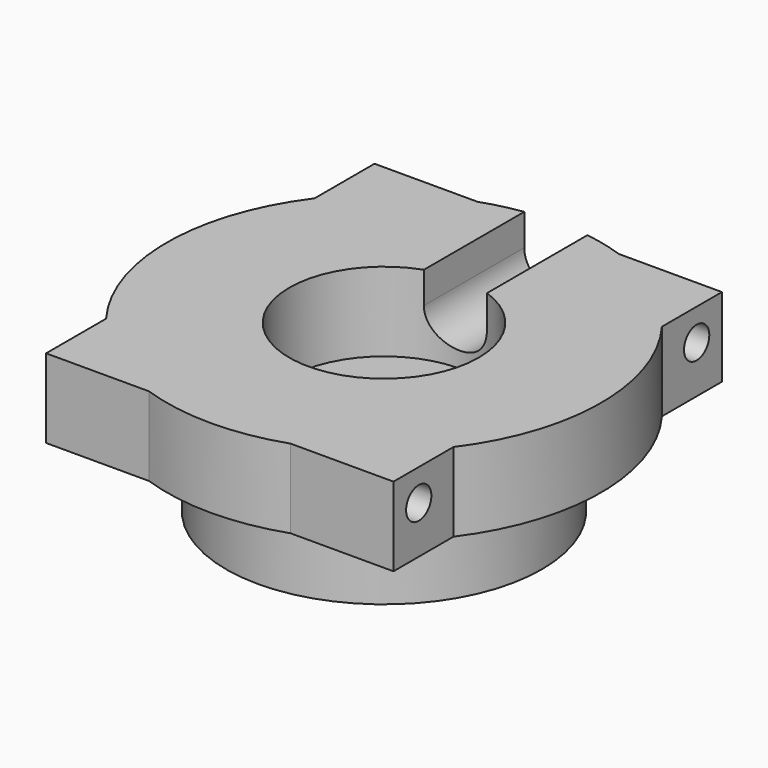
from build123d import *

# Parameters (mm, degrees)
CYLINDER1317_R     = 1
CYLINDER1317_DEPTH = 7
CYLINDER1318_R     = 1
CYLINDER1318_DEPTH = 7
CYLINDER1319_R     = 1
CYLINDER1319_DEPTH = 7
CYLINDER1320_R     = 1
CYLINDER1320_DEPTH = 7
BOX543_W           = 4
BOX543_H           = 11
BOX543_DEPTH       = 4
CYLINDER1293_R     = 2
CYLINDER1293_DEPTH = 11
CYLINDER1292_R     = 3
CYLINDER1292_DEPTH = 6.5
CYLINDER1286_R     = 6
CYLINDER1286_DEPTH = 6.5
CYLINDER1310_R     = 13.75
CYLINDER1310_DEPTH = 5
CYLINDER1291_R     = 5.6
CYLINDER1291_DEPTH = 4.5
CYLINDER1290_R     = 10
CYLINDER1290_DEPTH = 6
BOX507_W           = 22
BOX507_H           = 26
BOX507_DEPTH       = 5


with BuildPart() as cylinder1317:
    # Cylinder1317 → Cylinder1317 (new body)
    with BuildSketch(Plane(origin=(439, 96, 121), x_dir=(0, 0, -1), z_dir=(1, 0, 0))):
        Circle(CYLINDER1317_R)
    extrude(amount=CYLINDER1317_DEPTH)


with BuildPart() as fusion248002050190:
    # Cylinder1318 → Cylinder1318 (new body)
    with BuildSketch(Plane(origin=(439, 74, 121), x_dir=(0, 0, -1), z_dir=(1, 0, 0))):
        Circle(CYLINDER1318_R)
    extrude(amount=CYLINDER1318_DEPTH)

    # Fusion248002050190: union Cylinder1317
    add(cylinder1317.part)


with BuildPart() as fusion248002050190_1:
    # Fusion248002050190 placement: moved
    add(fusion248002050190.part.moved(Location((12, 0, 7))))


with BuildPart() as cylinder1319:
    # Cylinder1319 → Cylinder1319 (new body)
    with BuildSketch(Plane(origin=(439, 96, 121), x_dir=(0, 0, -1), z_dir=(1, 0, 0))):
        Circle(CYLINDER1319_R)
    extrude(amount=CYLINDER1319_DEPTH)


with BuildPart() as fusion248002050192:
    # Cylinder1320 → Cylinder1320 (new body)
    with BuildSketch(Plane(origin=(439, 74, 121), x_dir=(0, 0, -1), z_dir=(1, 0, 0))):
        Circle(CYLINDER1320_R)
    extrude(amount=CYLINDER1320_DEPTH)

    # Fusion248002050191: union Cylinder1319
    add(cylinder1319.part)


with BuildPart() as fusion248002050192_1:
    # Fusion248002050191 placement: moved
    add(fusion248002050192.part.moved(Location((27, 0, 7))))

    # Fusion248002050192: union Fusion248002050190
    add(fusion248002050190_1.part)


with BuildPart() as cube769:
    # Box543 → Box543 (new body)
    with BuildSketch(Plane(origin=(460, 88, 128), x_dir=(1, 0, 0), z_dir=(0, 0, 1))):
        with Locations((2, 5.5)):
            Rectangle(BOX543_W, BOX543_H)
    extrude(amount=BOX543_DEPTH)


with BuildPart() as fusion248002050172:
    # Cylinder1293 → Cylinder1293 (new body)
    with BuildSketch(Plane(origin=(462, 88, 128), x_dir=(1, 0, 0), z_dir=(0, 1, 0))):
        Circle(CYLINDER1293_R)
    extrude(amount=CYLINDER1293_DEPTH)

    # Fusion248002050172: union Cube769
    add(cube769.part)


with BuildPart() as cylinder1292:
    # Cylinder1292 → Cylinder1292 (new body)
    with BuildSketch(Plane(origin=(462, 85, 123), x_dir=(1, 0, 0), z_dir=(0, 0, 1))):
        Circle(CYLINDER1292_R)
    extrude(amount=CYLINDER1292_DEPTH)


with BuildPart() as cylinder1286:
    # Cylinder1286 → Cylinder1286 (new body)
    with BuildSketch(Plane(origin=(462, 85, 125), x_dir=(1, 0, 0), z_dir=(0, 0, 1))):
        Circle(CYLINDER1286_R)
    extrude(amount=CYLINDER1286_DEPTH)


with BuildPart() as cylinder1310:
    # Cylinder1310 → Cylinder1310 (new body)
    with BuildSketch(Plane(origin=(462, 85, 125), x_dir=(1, 0, 0), z_dir=(0, 0, 1))):
        Circle(CYLINDER1310_R)
    extrude(amount=CYLINDER1310_DEPTH)


with BuildPart() as cylinder1291:
    # Cylinder1291 → Cylinder1291 (new body)
    with BuildSketch(Plane(origin=(462, 85, 119.5), x_dir=(1, 0, 0), z_dir=(0, 0, 1))):
        Circle(CYLINDER1291_R)
    extrude(amount=CYLINDER1291_DEPTH)


with BuildPart() as cut014301:
    # Cylinder1290 → Cylinder1290 (new body)
    with BuildSketch(Plane(origin=(462, 85, 119.5), x_dir=(1, 0, 0), z_dir=(0, 0, 1))):
        Circle(CYLINDER1290_R)
    extrude(amount=CYLINDER1290_DEPTH)

    # Cut014301: cut Cylinder1291
    add(cylinder1291.part, mode=Mode.SUBTRACT)


with BuildPart() as bucket_head:
    # Box507 → Box507 (new body)
    with BuildSketch(Plane(origin=(451, 72, 125), x_dir=(1, 0, 0), z_dir=(0, 0, 1))):
        with Locations((11, 13)):
            Rectangle(BOX507_W, BOX507_H)
    extrude(amount=BOX507_DEPTH)

    # Fusion248002050171: union Cut014301
    add(cut014301.part)

    # Fusion248002050186: union Cylinder1310
    add(cylinder1310.part)

    # Cut014314: cut Cylinder1286
    add(cylinder1286.part, mode=Mode.SUBTRACT)

    # Cut014315: cut Cylinder1292
    add(cylinder1292.part, mode=Mode.SUBTRACT)

    # Cut014316: cut Fusion248002050172
    add(fusion248002050172.part, mode=Mode.SUBTRACT)

    # Cut014318: cut Fusion248002050192
    add(fusion248002050192_1.part, mode=Mode.SUBTRACT)


solid = bucket_head.part
